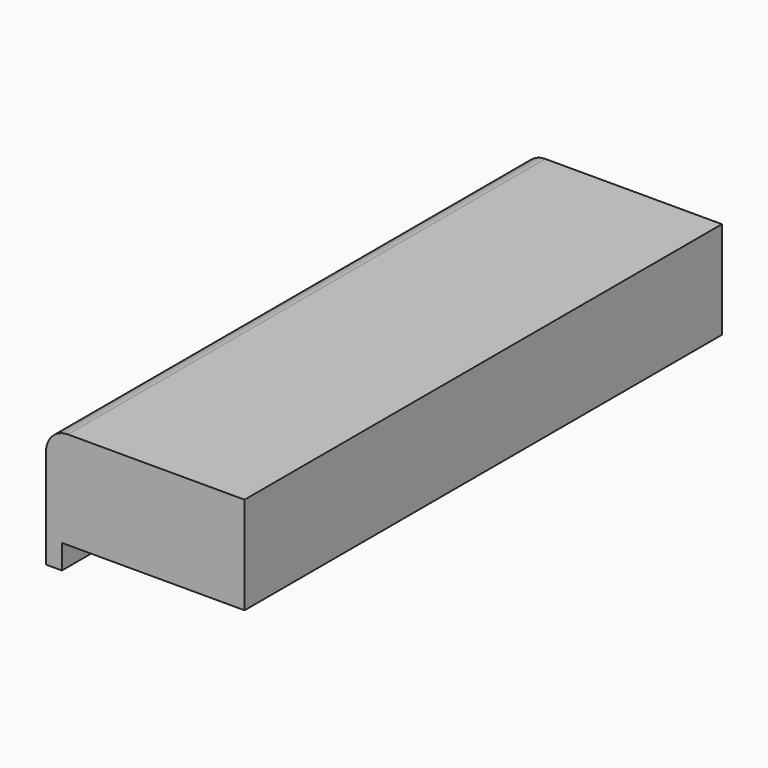
from build123d import *

# Parameters (mm, degrees)
PAD_DEPTH = 490
FILLET_R  = 18


with BuildPart() as part:
    # Sketch → Pad (new body)
    with BuildSketch(Plane.XZ):
        Polygon((0, 0), (150, 0), (150, 80), (0, 80), (-13, 80), (-13, -20), (0, -20), align=None)
    extrude(amount=-PAD_DEPTH)

    # Fillet
    fillet_edges = [part.edges().sort_by_distance(p)[0] for p in [
        (-13, 245, 80),
    ]]
    fillet(fillet_edges, radius=FILLET_R)


solid = part.part
